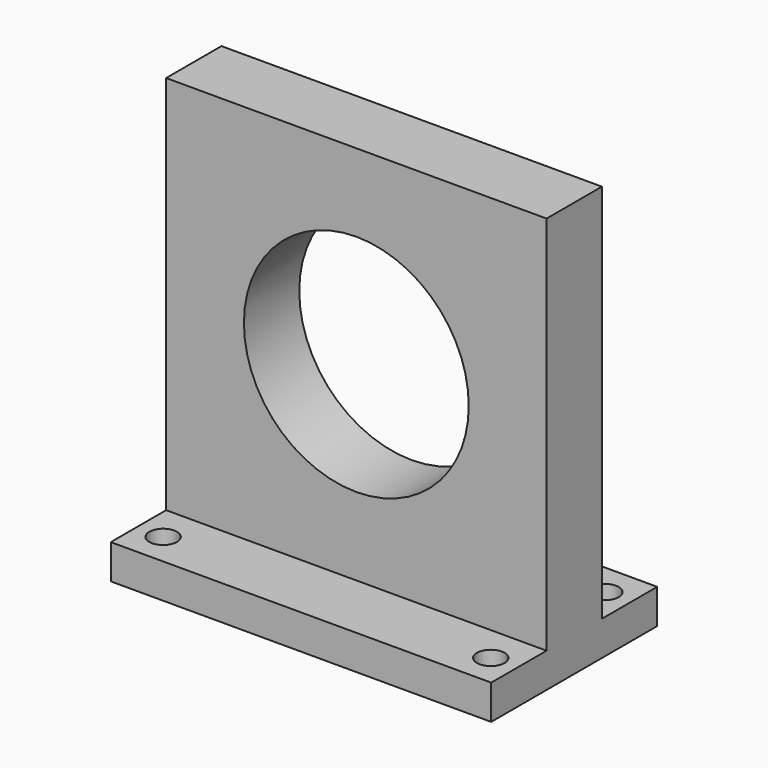
from build123d import *

# Parameters (mm, degrees)
F0_W     = 55
F0_H     = 10
F1_DEPTH = 55
F2_R     = 16.25
F3_DEPTH = 25
F4_W     = 55
F4_H     = 30
F5_DEPTH = 5
F6_R     = 2
F7_DEPTH = 25


with BuildPart() as f1:
    # F0 (on Top) → F1 (new body)
    with BuildSketch(Plane.XY):
        Rectangle(F0_W, F0_H)
    extrude(amount=F1_DEPTH)

    # F2 (on face) → F3 (cut)
    with BuildSketch(Plane.XZ.offset(5)):
        with Locations((0, 27.5)):
            Circle(F2_R)
    extrude(amount=-F3_DEPTH, mode=Mode.SUBTRACT)

    # F4 (on Top) → F5 (join)
    with BuildSketch(Plane.XY):
        Rectangle(F4_W, F4_H)
    extrude(amount=-F5_DEPTH)

    # F6 (on face) → F7 (cut)
    with BuildSketch(Plane(origin=(0, 0, -5), x_dir=(1, 0, 0), z_dir=(0, 0, -1))):
        with Locations((23.685403, 10.313298)):
            Circle(F6_R)
        with Locations((-23.685403, 10.313298)):
            Circle(F6_R)
        with Locations((-23.685403, -10.313298)):
            Circle(F6_R)
        with Locations((23.685403, -10.313298)):
            Circle(F6_R)
    extrude(amount=-F7_DEPTH, mode=Mode.SUBTRACT)


solid = f1.part
